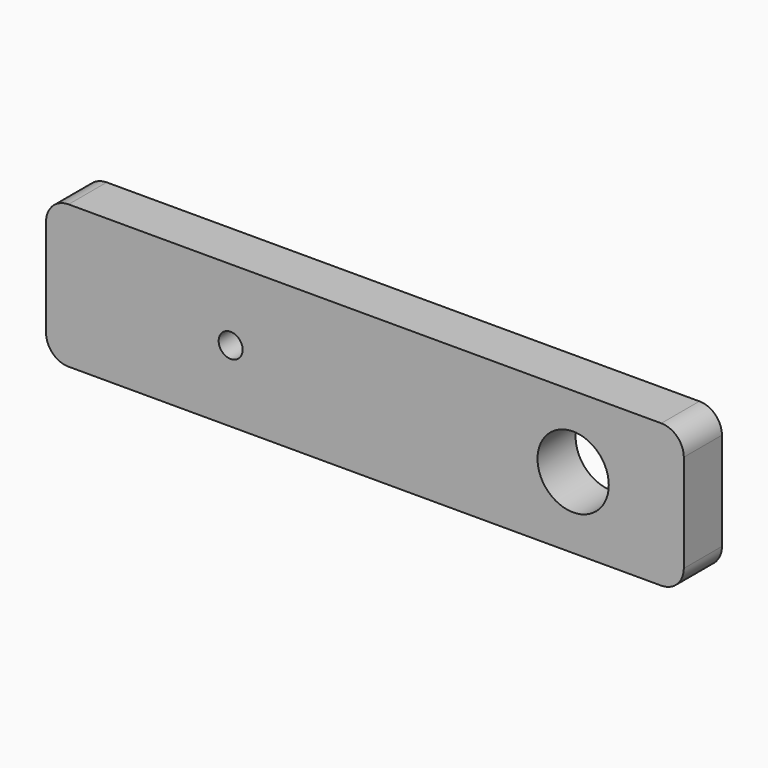
from build123d import *

# Parameters (mm, degrees)
F0_W     = 85
F0_H     = 19.05
F1_DEPTH = 6.35
F2_R     = 3
F4_R     = 1.5
F5_DEPTH = 5
F3_R     = 1.6
F3_R_2   = 4.75
F6_DEPTH = 25


with BuildPart() as f1:
    # F0 (on Front) → F1 (new body)
    with BuildSketch(Plane.XZ):
        Rectangle(F0_W, F0_H)
    extrude(amount=F1_DEPTH)

    # F2
    f2_edges = [f1.edges().sort_by_distance(p)[0] for p in [
        (-42.5, -3.175, 9.525),
        (42.5, -3.175, 9.525),
        (42.5, -3.175, -9.525),
        (-42.5, -3.175, -9.525),
    ]]
    fillet(f2_edges, radius=F2_R)

    # F4 (on face) → F5 (cut)
    with BuildSketch(Plane(origin=(0, 0, -9.525), x_dir=(1, 0, 0), z_dir=(0, 0, -1))):
        with Locations((-21, 2.631049)):
            Circle(F4_R)
        with Locations((21.001311, 3.395217)):
            Circle(F4_R)
    extrude(amount=-F5_DEPTH, mode=Mode.SUBTRACT)

    # F3 (on face) → F6 (cut)
    with BuildSketch(Plane.XZ.offset(6.35)):
        with Locations((-17.9, 0)):
            Circle(F3_R)
        with Locations((27.75, 0)):
            Circle(F3_R_2)
    extrude(amount=-F6_DEPTH, mode=Mode.SUBTRACT)


solid = f1.part
